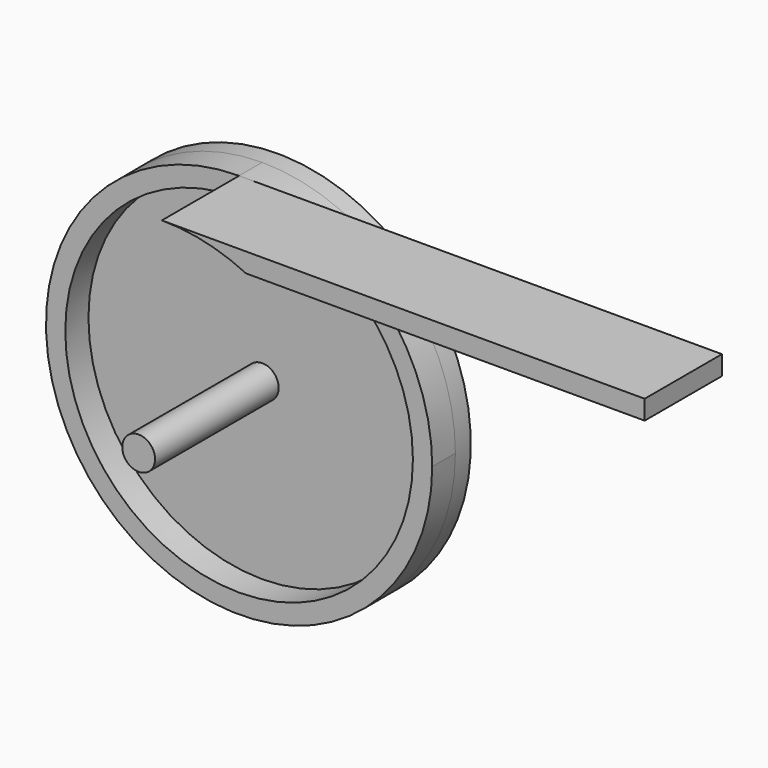
from build123d import *

# Parameters (mm, degrees)
F1_DEPTH = 3.81
F2_R     = 25.4
F3_DEPTH = 2.54
F5_DEPTH = 12.7
F6_R     = 1.905
F7_DEPTH = 20.32
F8_R     = 2.158411
F9_DEPTH = 20.32


with BuildPart() as f1:
    # F0 (on Front) → F1 (new body)
    with BuildSketch(Plane.XZ):
        with BuildLine():
            ThreePointArc((0, 25.4), (-17.960512, -17.960512), (25.4, 0))
            ThreePointArc((25.4, 0), (17.960512, 17.960512), (0, 25.4))
        make_face()
        with BuildLine():
            ThreePointArc((22.86, 0), (-16.164461, -16.164461), (0, 22.86))
            ThreePointArc((0, 22.86), (16.164461, 16.164461), (22.86, 0))
        make_face(mode=Mode.SUBTRACT)
    extrude(amount=-F1_DEPTH)

    # F2 (on face) → F3 (join)
    with BuildSketch(Plane(origin=(0, 3.81, 0), x_dir=(-1, 0, 0), z_dir=(0, 1, 0))):
        Circle(F2_R)
    extrude(amount=F3_DEPTH)


with BuildPart() as f5:
    # F4 (on face) → F5 (new body)
    with BuildSketch(Plane.XZ):
        with BuildLine():
            Line((63.5, 25.4), (0, 25.4))
            ThreePointArc((0, 25.4), (5.679613, 24.756858), (11.071603, 22.86))
            Line((11.071603, 22.86), (63.5, 22.86))
            Line((63.5, 22.86), (63.5, 25.4))
        make_face()
    extrude(amount=F5_DEPTH)


with BuildPart() as f7:
    # F6 (on face) → F7 (new body)
    with BuildSketch(Plane.XZ.offset(-3.81)):
        Circle(F6_R)
    extrude(amount=F7_DEPTH)


with BuildPart() as f9:
    # F8 (on face) → F9 (new body)
    with BuildSketch(Plane.XZ.offset(-3.81)):
        Circle(F8_R)
    extrude(amount=F9_DEPTH)


solid = Compound([f1.part, f5.part, f7.part, f9.part])
